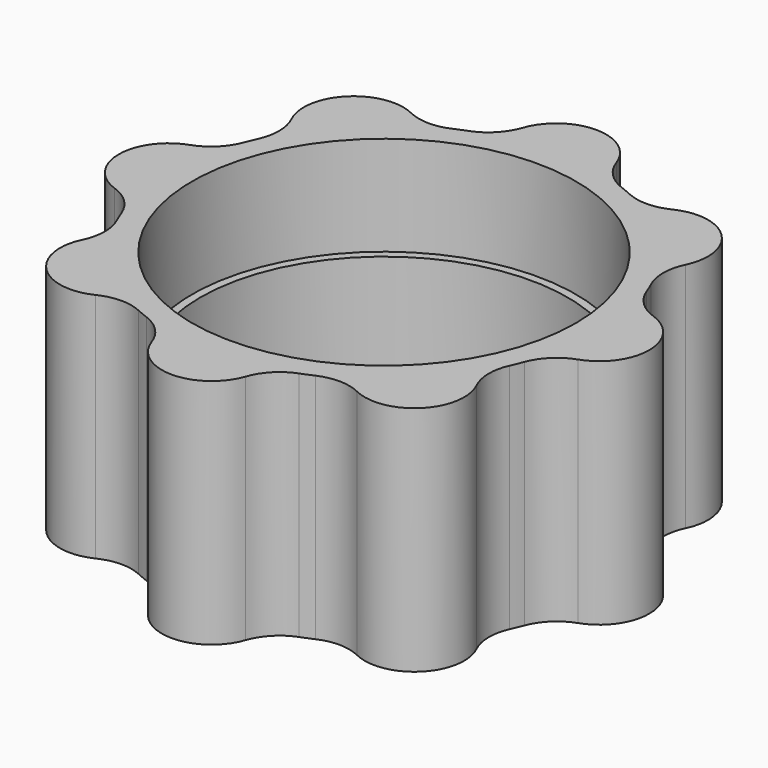
from build123d import *

# Parameters (mm, degrees)
F0_R     = 27.7
F1_DEPTH = 35
F2_R     = 28.95
F3_DEPTH = 15


with BuildPart() as f1:
    # F0 (on Top) → F1 (new body)
    with BuildSketch(Plane.XY):
        with BuildLine():
            ThreePointArc((-7.087882, 34.951923), (-8.795551, 32.17859), (-11.517808, 30.390625))
            ThreePointArc((-11.517808, 30.390625), (-12.437212, 30.026085), (-13.345097, 29.633738))
            ThreePointArc((-13.345097, 29.633738), (-16.534306, 28.973093), (-19.702852, 29.726631))
            ThreePointArc((-19.702852, 29.726631), (-28.284271, 28.284271), (-29.726631, 19.702852))
            ThreePointArc((-29.726631, 19.702852), (-28.973093, 16.534306), (-29.633738, 13.345097))
            ThreePointArc((-29.633738, 13.345097), (-30.026085, 12.437212), (-30.390625, 11.517808))
            ThreePointArc((-30.390625, 11.517808), (-32.17859, 8.795551), (-34.951923, 7.087882))
            ThreePointArc((-34.951923, 7.087882), (-40, 0), (-34.951923, -7.087882))
            ThreePointArc((-34.951923, -7.087882), (-32.17859, -8.795551), (-30.390625, -11.517808))
            ThreePointArc((-30.390625, -11.517808), (-30.026085, -12.437212), (-29.633738, -13.345097))
            ThreePointArc((-29.633738, -13.345097), (-28.973093, -16.534306), (-29.726631, -19.702852))
            ThreePointArc((-29.726631, -19.702852), (-28.284271, -28.284271), (-19.702852, -29.726631))
            ThreePointArc((-19.702852, -29.726631), (-16.534306, -28.973093), (-13.345097, -29.633738))
            ThreePointArc((-13.345097, -29.633738), (-12.437212, -30.026085), (-11.517808, -30.390625))
            ThreePointArc((-11.517808, -30.390625), (-8.795551, -32.17859), (-7.087882, -34.951923))
            ThreePointArc((-7.087882, -34.951923), (0, -40), (7.087882, -34.951923))
            ThreePointArc((7.087882, -34.951923), (8.795551, -32.17859), (11.517808, -30.390625))
            ThreePointArc((11.517808, -30.390625), (12.437212, -30.026085), (13.345097, -29.633738))
            ThreePointArc((13.345097, -29.633738), (16.534306, -28.973093), (19.702852, -29.726631))
            ThreePointArc((19.702852, -29.726631), (28.284271, -28.284271), (29.726631, -19.702852))
            ThreePointArc((29.726631, -19.702852), (28.973093, -16.534306), (29.633738, -13.345097))
            ThreePointArc((29.633738, -13.345097), (30.026085, -12.437212), (30.390625, -11.517808))
            ThreePointArc((30.390625, -11.517808), (32.17859, -8.795551), (34.951923, -7.087882))
            ThreePointArc((34.951923, -7.087882), (40, 0), (34.951923, 7.087882))
            ThreePointArc((34.951923, 7.087882), (32.17859, 8.795551), (30.390625, 11.517808))
            ThreePointArc((30.390625, 11.517808), (30.026085, 12.437212), (29.633738, 13.345097))
            ThreePointArc((29.633738, 13.345097), (28.973093, 16.534306), (29.726631, 19.702852))
            ThreePointArc((29.726631, 19.702852), (28.284271, 28.284271), (19.702852, 29.726631))
            ThreePointArc((19.702852, 29.726631), (16.534306, 28.973093), (13.345097, 29.633738))
            ThreePointArc((13.345097, 29.633738), (12.437212, 30.026085), (11.517808, 30.390625))
            ThreePointArc((11.517808, 30.390625), (8.795551, 32.17859), (7.087882, 34.951923))
            ThreePointArc((7.087882, 34.951923), (0, 40), (-7.087882, 34.951923))
        make_face()
        Circle(F0_R, mode=Mode.SUBTRACT)
    extrude(amount=F1_DEPTH)

    # F2 (on face) → F3 (cut)
    with BuildSketch(Plane.XY.offset(35)):
        Circle(F2_R)
    extrude(amount=-F3_DEPTH, mode=Mode.SUBTRACT)


solid = f1.part
